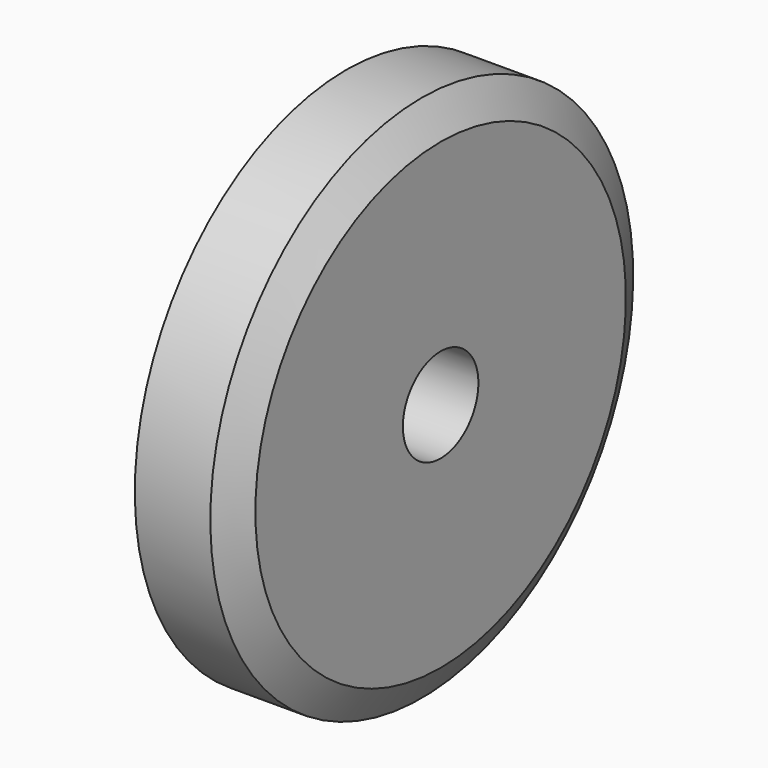
from build123d import *

# Parameters (mm, degrees)
F3_D = 5


with BuildPart() as f1:
    # F0 (on Front) → F1 (revolve)
    with BuildSketch(Plane.XZ):
        Polygon((0, 10.2679491924), (0, 0), (6, 0), (6, 12.2679491924), (5, 14), (1, 14), align=None)
    revolve(axis=Axis((3, 0, 0), (-1, 0, 0)))

    # F3 (through all)
    with Locations(Plane.YZ.offset(6)):
        with Locations((0, 0)):
            Hole(F3_D / 2)


solid = f1.part
